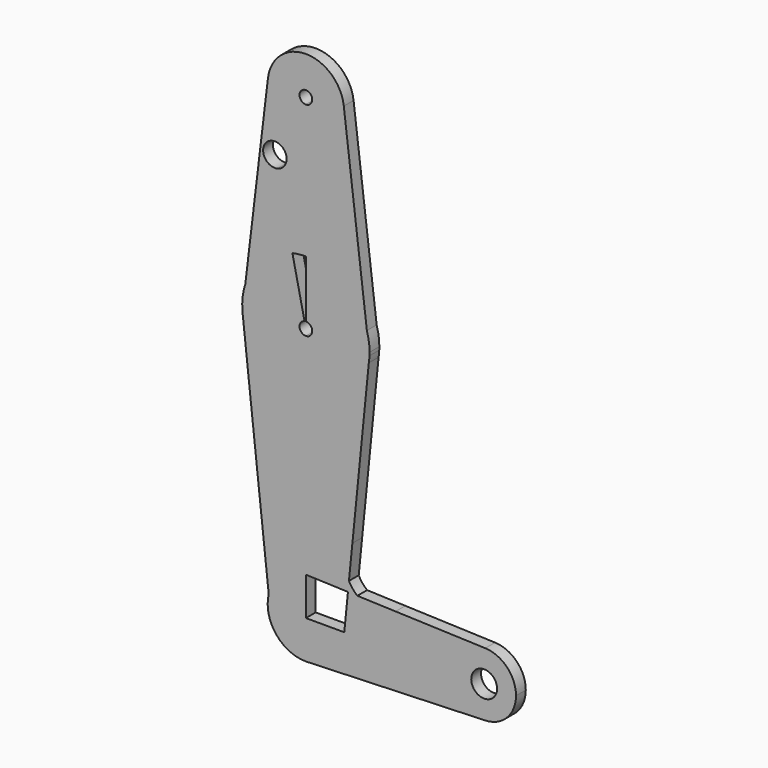
from build123d import *

# Parameters (mm, degrees)
F1_DEPTH = 3.048


with BuildPart() as f1:
    # F0 (on Front) → F1 (new body)
    with BuildSketch(Plane.XZ):
        with BuildLine():
            ThreePointArc((-9.2645060826, 2.2123634522), (-5.9013923407, 7.4765763181), (0, 9.525))
            Line((0, 9.525), (0, 47.625))
            ThreePointArc((0, 47.625), (-10.3910445269, 51.4982576831), (-15.7115765436, 61.2279992263))
            Line((-15.7115765436, 61.2279992263), (-9.2645060826, 2.2123634522))
        make_face()
        with BuildLine():
            Line((0, 47.625), (0, 9.525))
            ThreePointArc((0, 9.525), (0.3388863295, 9.5189695375), (0.6773435479, 9.500885786))
            Line((0.6773435479, 9.500885786), (10.4894579369, 9.1515631606))
            Line((10.4894579369, 9.1515631606), (10.7392491774, 11.6450439308))
            ThreePointArc((10.7392491774, 11.6450439308), (9.9128827589, 16.0457286492), (11.5957685835, 20.1950421766))
            Line((11.5957685835, 20.1950421766), (15.6954564222, 61.1191865469))
            ThreePointArc((15.6954564222, 61.1191865469), (10.349401225, 51.4623291587), (0, 47.625))
        make_face()
        with BuildLine():
            Line((0, 0), (0, 9.525))
            ThreePointArc((0, 9.525), (-5.9013923407, 7.4765763181), (-9.2645060826, 2.2123634522))
            Line((-9.2645060826, 2.2123634522), (-8.5683145942, -4.1604819451))
            ThreePointArc((-8.5683145942, -4.1604819451), (-5.0545541086, -8.0732340337), (0, -9.525))
            Line((0, -9.525), (0.6773435479, -9.500885786))
            ThreePointArc((0.6773435479, -9.500885786), (6.9705567315, -6.4912990883), (9.525, 0))
            Line((9.525, 0), (0, 0))
        make_face()
        with BuildLine():
            ThreePointArc((-15.7115765436, 61.2279992263), (-10.3910445269, 51.4982576831), (0, 47.625))
            Line((0, 47.625), (0, 61.9125))
            ThreePointArc((0, 61.9125), (-1.5784810049, 63.3310208085), (-0.3360383547, 65.0515264981))
            Line((-0.3360383547, 65.0515264981), (-3.3603835466, 79.0152649807))
            ThreePointArc((-3.3603835466, 79.0152649807), (-10.6524433753, 75.2703472819), (-15.1040892545, 68.3869328616))
            Line((-15.1040892545, 68.3869328616), (-15.8315393086, 62.3261226129))
            Line((-15.8315393086, 62.3261226129), (-15.7115765436, 61.2279992263))
        make_face()
        with BuildLine():
            Line((0, 61.9125), (0, 47.625))
            ThreePointArc((0, 47.625), (10.349401225, 51.4623291587), (15.6954564222, 61.1191865469))
            Line((15.6954564222, 61.1191865469), (15.8558300155, 62.720077235))
            Line((15.8558300155, 62.720077235), (15.2087919051, 68.0506344378))
            ThreePointArc((15.2087919051, 68.0506344378), (9.4808834847, 76.232967971), (0, 79.375))
            Line((0, 79.375), (0, 65.0875))
            ThreePointArc((0, 65.0875), (1.1225320151, 64.6225320151), (1.5875, 63.5))
            ThreePointArc((1.5875, 63.5), (1.1225320151, 62.3774679849), (0, 61.9125))
        make_face()
        with BuildLine():
            Line((-8.5683145942, -4.1604819451), (-9.2645060826, 2.2123634522))
            ThreePointArc((-9.2645060826, 2.2123634522), (-9.468667432, -1.0343897054), (-8.5683145942, -4.1604819451))
        make_face()
        with BuildLine():
            Line((9.5726751239, 0), (9.525, 0))
            ThreePointArc((9.525, 0), (6.9705567315, -6.4912990883), (0.6773435479, -9.500885786))
            Line((0.6773435479, -9.500885786), (44.7324052746, -7.9324746146))
            ThreePointArc((44.7324052746, -7.9324746146), (38.9380895153, -5.7116327839), (36.5125, 0))
            Line((36.5125, 0), (9.5726751239, 0))
        make_face()
        with BuildLine():
            ThreePointArc((-15.8315393086, 62.3261226129), (-15.7811123866, 61.7760171576), (-15.7115765436, 61.2279992263))
            Line((-15.7115765436, 61.2279992263), (-15.8315393086, 62.3261226129))
        make_face()
        with BuildLine():
            Line((15.8558300155, 62.720077235), (15.6954564222, 61.1191865469))
            ThreePointArc((15.6954564222, 61.1191865469), (15.7959371902, 61.917598887), (15.8558300155, 62.720077235))
        make_face()
        with BuildLine():
            Line((12.8283010423, 9.0682976399), (10.4894579369, 9.1515631606))
            Line((10.4894579369, 9.1515631606), (9.5726751239, 0))
            Line((9.5726751239, 0), (36.5125, 0))
            ThreePointArc((36.5125, 0), (38.9380895153, 5.7116327839), (44.7324052746, 7.9324746146))
            Line((44.7324052746, 7.9324746146), (22.3662026373, 8.7287373073))
            ThreePointArc((22.3662026373, 8.7287373073), (17.5406309808, 7.3080955978), (12.8283010423, 9.0682976399))
        make_face()
        with BuildLine():
            Line((10.7392491774, 11.6450439308), (10.4894579369, 9.1515631606))
            Line((10.4894579369, 9.1515631606), (12.8283010423, 9.0682976399))
            ThreePointArc((12.8283010423, 9.0682976399), (11.6478878568, 10.2465025781), (10.7392491774, 11.6450439308))
        make_face()
        with BuildLine():
            ThreePointArc((0, -9.525), (0.3388863295, -9.5189695375), (0.6773435479, -9.500885786))
            Line((0.6773435479, -9.500885786), (0, -9.525))
        make_face()
        with BuildLine():
            ThreePointArc((-15.1040892545, 68.3869328616), (-15.7618727906, 65.3918221731), (-15.8315393086, 62.3261226129))
            Line((-15.8315393086, 62.3261226129), (-15.1040892545, 68.3869328616))
        make_face()
        with BuildLine():
            Line((15.2087919051, 68.0506344378), (15.8558300155, 62.720077235))
            ThreePointArc((15.8558300155, 62.720077235), (15.8702067803, 63.1099208389), (15.875, 63.5))
            ThreePointArc((15.875, 63.5), (15.7075650006, 65.7995709932), (15.2087919051, 68.0506344378))
        make_face()
        with BuildLine():
            Line((10.7392491774, 11.6450439308), (11.5957685835, 20.1950421766))
            ThreePointArc((11.5957685835, 20.1950421766), (9.9128827589, 16.0457286492), (10.7392491774, 11.6450439308))
        make_face()
        with BuildLine():
            Line((22.3662026373, 8.7287373073), (12.8283010423, 9.0682976399))
            ThreePointArc((12.8283010423, 9.0682976399), (17.5406309808, 7.3080955978), (22.3662026373, 8.7287373073))
        make_face()
        with BuildLine():
            ThreePointArc((44.7324052746, 7.9324746146), (38.9380895153, 5.7116327839), (36.5125, 0))
            ThreePointArc((36.5125, 0), (38.9380895153, -5.7116327839), (44.7324052746, -7.9324746146))
            ThreePointArc((44.7324052746, -7.9324746146), (50.1616327839, -5.5119104847), (52.3875, 0))
            ThreePointArc((52.3875, 0), (50.1616327839, 5.5119104847), (44.7324052746, 7.9324746146))
        make_face()
        with BuildLine():
            ThreePointArc((47.6717595743, 0), (44.45, -3.2217595743), (41.2282404257, 0))
            ThreePointArc((41.2282404257, 0), (44.45, 3.2217595743), (47.6717595743, 0))
        make_face(mode=Mode.SUBTRACT)
        with BuildLine():
            ThreePointArc((-15.1040892545, 68.3869328616), (-10.6524433753, 75.2703472819), (-3.3603835466, 79.0152649807))
            ThreePointArc((-3.3603835466, 79.0152649807), (-1.689791915, 79.284810049), (0, 79.375))
            Line((0, 79.375), (0, 104.775))
            ThreePointArc((0, 104.775), (-7.1252153904, 107.9788505285), (-9.4571236743, 115.4350933038))
            Line((-9.4571236743, 115.4350933038), (-15.1040892545, 68.3869328616))
        make_face()
        with BuildLine():
            ThreePointArc((-4.8075781703, 99.1975216675), (-5.455662036, 97.3617733838), (-7.1126264895, 96.3397884242))
            ThreePointArc((-7.1126264895, 96.3397884242), (-10.0074788918, 101.0332699512), (-4.8075781703, 99.1975216675))
        make_face(mode=Mode.SUBTRACT)
        with BuildLine():
            ThreePointArc((0, 79.375), (9.4808834847, 76.232967971), (15.2087919051, 68.0506344378))
            Line((15.2087919051, 68.0506344378), (9.4555963199, 115.4477470258))
            ThreePointArc((9.4555963199, 115.4477470258), (9.5076332477, 114.8749217569), (9.525, 114.3))
            ThreePointArc((9.525, 114.3), (6.7351920908, 107.5648079092), (0, 104.775))
            Line((0, 104.775), (0, 79.375))
        make_face()
        with BuildLine():
            ThreePointArc((9.4555963199, 115.4477470258), (-0.0063727837, 123.8249978681), (-9.4571236743, 115.4350933038))
            ThreePointArc((-9.4571236743, 115.4350933038), (-7.1252153904, 107.9788505285), (0, 104.775))
            ThreePointArc((0, 104.775), (6.7351920908, 107.5648079092), (9.525, 114.3))
            ThreePointArc((9.525, 114.3), (9.5076332477, 114.8749217569), (9.4555963199, 115.4477470258))
        make_face()
        with BuildLine():
            ThreePointArc((1.5875, 114.3), (1.1225320151, 113.1774679849), (0, 112.7125))
            ThreePointArc((0, 112.7125), (-1.1225320151, 115.4225320151), (1.5875, 114.3))
        make_face(mode=Mode.SUBTRACT)
    extrude(amount=F1_DEPTH)


solid = f1.part
